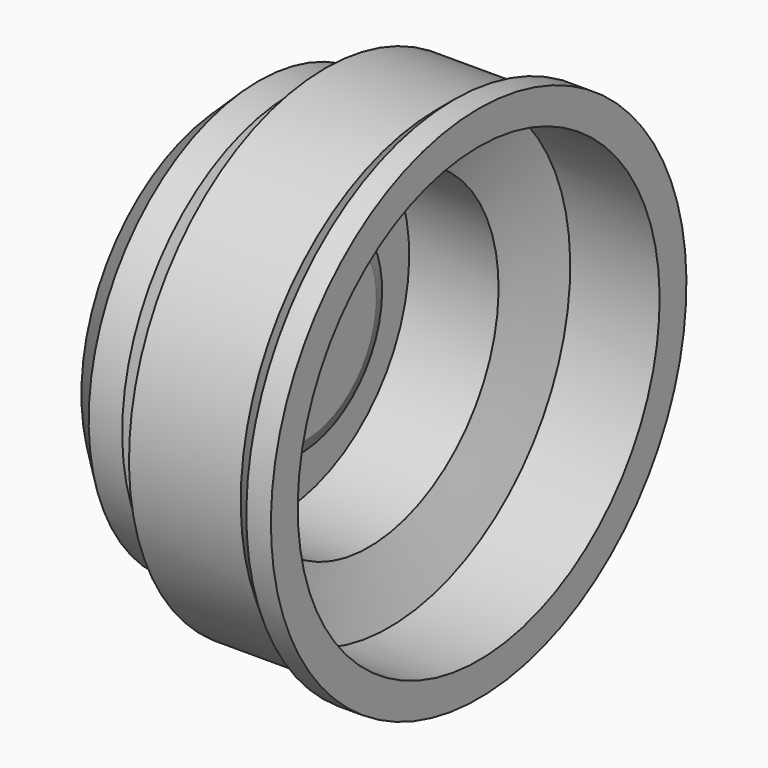
from build123d import *


with BuildPart() as f1:
    # F0 (on Front) → F1 (revolve)
    with BuildSketch(Plane.XZ):
        Polygon((-26.19375, 37.776374), (-44.45, 20.116552), (-44.45, -56.083448), (-25.4, -56.083448), (-25.4, -83.002217), (0, -83.002217), (0, -32.202217), (-2.477644, -24.99627), (-14.493926, -20.885436), (-14.493926, 9.263476), (36.306074, 9.263476), (48.002879, 45.523575), (98.802879, 45.523575), (98.802879, 64.573575), (84.832879, 64.573575), (75.108421, 56.405042), (37.008421, 56.405042), (11.608421, 56.405042), (0, 20.116552), (-7.14375, 37.776374), align=None)
    revolve(axis=Axis((-12.7, 0, -83.002217), (-1, 0, 0)))


solid = f1.part
